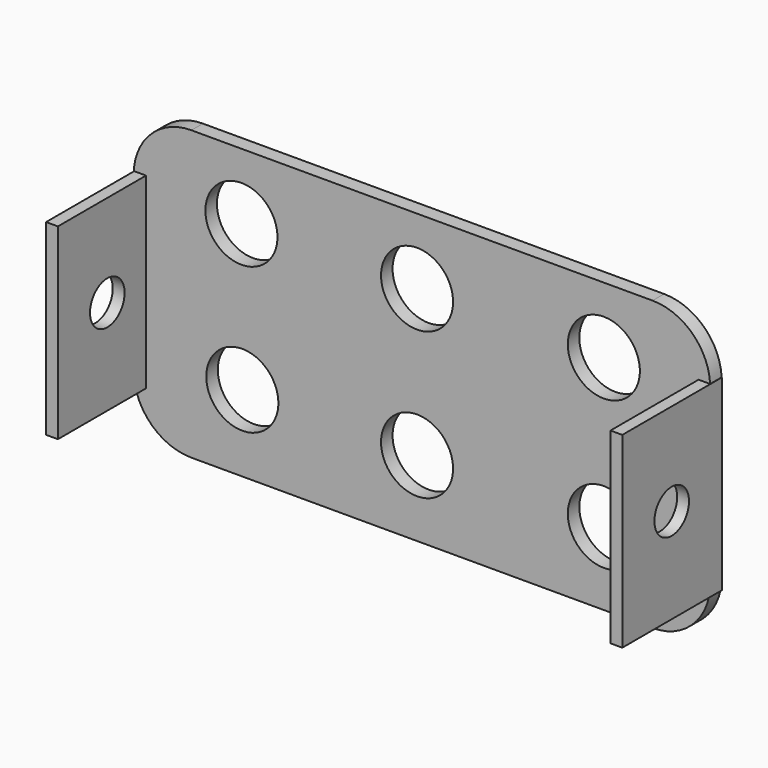
from build123d import *

# Parameters (mm, degrees)
F0_W     = 50.8
F0_H     = 25.4
F1_DEPTH = 1.27
F3_D     = 6.35
F4_R     = 5.08
F5_W     = 1.0414
F5_H     = 16.51
F6_DEPTH = 10.9728
F7_DEPTH = 0.254
F9_D     = 3.81


with BuildPart() as f1:
    # F0 (on Front) → F1 (new body)
    with BuildSketch(Plane.XZ):
        with Locations((0.432136, -0.480445)):
            Rectangle(F0_W, F0_H)
    extrude(amount=F1_DEPTH)

    # F3 (through all)
    with Locations(Plane.XZ.offset(1.27)):
        with Locations((0, -6.53336), (16.458306, 6.398361), (0, 6.395109), (16.458306, -6.737123), (-15.397238, -6.455945), (-15.474654, 6.395109)):
            Hole(F3_D / 2)

    # F4
    f4_edges = [f1.edges().sort_by_distance(p)[0] for p in [
        (25.832136, -0.635, 12.219555),
        (25.832136, -0.635, -13.180445),
        (-24.967864, -0.635, 12.219555),
        (-24.967864, -0.635, -13.180445),
    ]]
    fillet(f4_edges, radius=F4_R)

    # F5 (on Front) → F6 (join)
    with BuildSketch(Plane.XZ):
        with Locations((25.327766, -0.851475)):
            Rectangle(F5_W, F5_H)
        with Locations((-24.406663, -0.851475)):
            Rectangle(F5_W, F5_H)
    extrude(amount=F6_DEPTH)

    # F5 (on Front) → F7 (join)
    with BuildSketch(Plane.XZ):
        with Locations((25.327766, -0.851475)):
            Rectangle(F5_W, F5_H)
        with Locations((-24.406663, -0.851475)):
            Rectangle(F5_W, F5_H)
    extrude(amount=F7_DEPTH)

    # F9 (through all)
    with Locations(Plane.YZ.offset(25.848466)):
        with Locations((-5.532465, -0.73287)):
            Hole(F9_D / 2)


solid = f1.part
